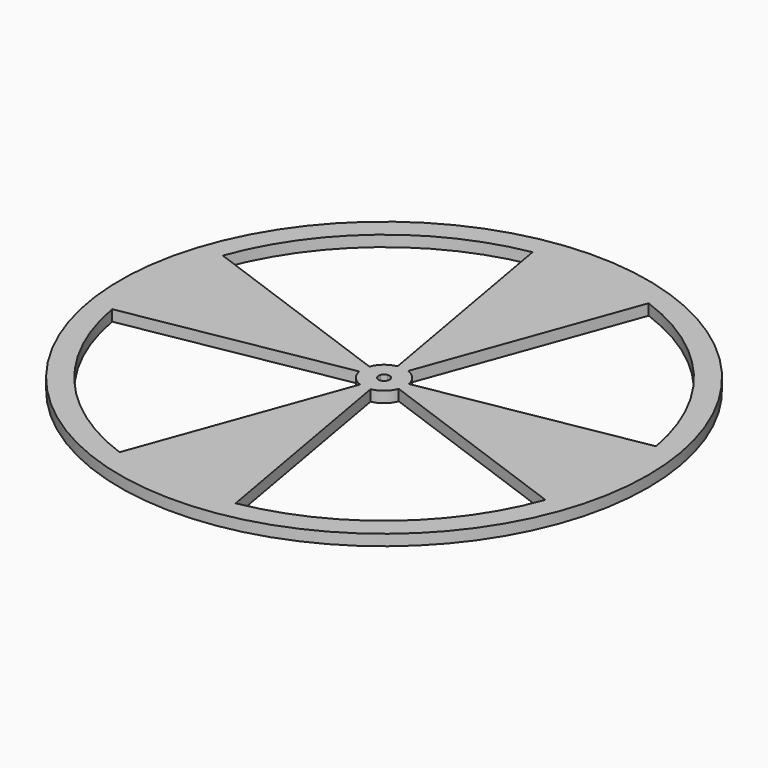
from build123d import *

# Parameters (mm, degrees)
F0_R     = 76.2
F1_DEPTH = 3.175
F3_DEPTH = 25.4
F4_DEPTH = 25.4


with BuildPart() as f1:
    # F0 (on Top) → F1 (new body)
    with BuildSketch(Plane.XY):
        with Locations((-57.6965734363, 32.640516758)):
            Circle(F0_R)
    extrude(amount=F1_DEPTH)

    # F2 (on face) → F3 (cut)
    with BuildSketch(Plane.XY.offset(3.175)):
        with BuildLine():
            ThreePointArc((-126.4787083378, 20.4733306254), (-111.1800565213, -12.2876429762), (-81.5505486037, -33.0101524596))
            Line((-81.5505486037, -33.0101524596), (-59.8651166333, 26.6722741018))
            ThreePointArc((-59.8651166333, 26.6722741018), (-62.5587082622, 28.5561386003), (-63.9494947909, 31.5344089277))
            Line((-63.9494947909, 31.5344089277), (-126.4787083378, 20.4733306254))
        make_face()
        with BuildLine():
            Line((-58.8026812665, 38.8934381127), (-69.8637595688, 101.4226516595))
            ThreePointArc((-69.8637595688, 101.4226516595), (-102.6247331704, 86.123999843), (-123.3472426538, 56.4944919254))
            Line((-123.3472426538, 56.4944919254), (-63.6648160924, 34.809059955))
            ThreePointArc((-63.6648160924, 34.809059955), (-61.7809515939, 37.5026515839), (-58.8026812665, 38.8934381127))
        make_face()
        with BuildLine():
            ThreePointArc((-45.5293873037, -36.1416181436), (-12.7684137021, -20.842966327), (7.9540957813, 8.7865415905))
            Line((7.9540957813, 8.7865415905), (-51.7283307801, 30.4719735609))
            ThreePointArc((-51.7283307801, 30.4719735609), (-53.6121952786, 27.7783819321), (-56.590465606, 26.3875954033))
            Line((-56.590465606, 26.3875954033), (-45.5293873037, -36.1416181436))
        make_face()
        with BuildLine():
            Line((-51.4436520816, 33.7466245882), (11.0855614653, 44.8077028905))
            ThreePointArc((11.0855614653, 44.8077028905), (-4.2130903513, 77.5686764921), (-33.8425982688, 98.2911859755))
            Line((-33.8425982688, 98.2911859755), (-55.5280302392, 38.6087594141))
            ThreePointArc((-55.5280302392, 38.6087594141), (-52.8344386104, 36.7248949156), (-51.4436520816, 33.7466245882))
        make_face()
    extrude(amount=-F3_DEPTH, mode=Mode.SUBTRACT)

    # F2 (on face) → F4 (cut)
    with BuildSketch(Plane.XY.offset(3.175)):
        with BuildLine():
            ThreePointArc((-57.4200464787, 31.0772864193), (-56.6754788968, 31.4249830515), (-56.2045127722, 32.0983809587))
            Line((-56.2045127722, 32.0983809587), (-57.6965734363, 32.640516758))
            Line((-57.6965734363, 32.640516758), (-57.4200464787, 31.0772864193))
        make_face()
        with BuildLine():
            ThreePointArc((-56.1090734363, 32.640516758), (-56.1151524909, 32.7793117279), (-56.1333430976, 32.9170437155))
            Line((-56.1333430976, 32.9170437155), (-57.6965734363, 32.640516758))
            Line((-57.6965734363, 32.640516758), (-56.2045127722, 32.0983809587))
            ThreePointArc((-56.2045127722, 32.0983809587), (-56.1331153214, 32.365280545), (-56.1090734363, 32.640516758))
        make_face()
        with BuildLine():
            Line((-57.6965734363, 32.640516758), (-56.1333430976, 32.9170437155))
            ThreePointArc((-56.1333430976, 32.9170437155), (-56.4810397298, 33.6616112974), (-57.154437637, 34.132577422))
            Line((-57.154437637, 34.132577422), (-57.6965734363, 32.640516758))
        make_face()
        with BuildLine():
            Line((-57.6965734363, 32.640516758), (-57.154437637, 34.132577422))
            ThreePointArc((-57.154437637, 34.132577422), (-57.5590841827, 34.2220517576), (-57.9731003938, 34.2037470966))
            Line((-57.9731003938, 34.2037470966), (-57.6965734363, 32.640516758))
        make_face()
        with BuildLine():
            Line((-59.1886341003, 33.1826525572), (-57.6965734363, 32.640516758))
            Line((-57.6965734363, 32.640516758), (-57.9731003938, 34.2037470966))
            ThreePointArc((-57.9731003938, 34.2037470966), (-58.7176679757, 33.8560504644), (-59.1886341003, 33.1826525572))
        make_face()
        with BuildLine():
            Line((-59.2598037749, 32.3639898004), (-57.6965734363, 32.640516758))
            Line((-57.6965734363, 32.640516758), (-59.1886341003, 33.1826525572))
            ThreePointArc((-59.1886341003, 33.1826525572), (-59.2781084359, 32.7780060115), (-59.2598037749, 32.3639898004))
        make_face()
        with BuildLine():
            Line((-58.2387092355, 31.1484560939), (-57.6965734363, 32.640516758))
            Line((-57.6965734363, 32.640516758), (-59.2598037749, 32.3639898004))
            ThreePointArc((-59.2598037749, 32.3639898004), (-58.9121071427, 31.6194222186), (-58.2387092355, 31.1484560939))
        make_face()
        with BuildLine():
            Line((-57.4200464787, 31.0772864193), (-57.6965734363, 32.640516758))
            Line((-57.6965734363, 32.640516758), (-58.2387092355, 31.1484560939))
            ThreePointArc((-58.2387092355, 31.1484560939), (-57.8340626898, 31.0589817583), (-57.4200464787, 31.0772864193))
        make_face()
    extrude(amount=-F4_DEPTH, mode=Mode.SUBTRACT)


solid = f1.part
